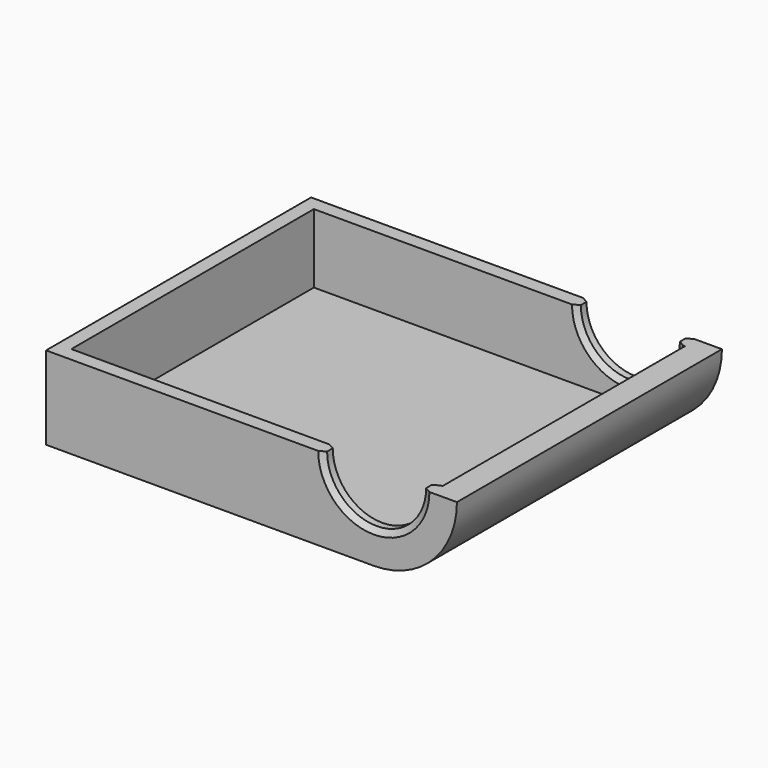
from build123d import *

# Parameters (mm, degrees)
PAD005_DEPTH        = 70.75
PAD006_DEPTH        = 14.75
PAD007_DEPTH        = 3
PAD008_DEPTH        = 3
POCKET001_DEPTH     = 70.751
REVOLUTION001_ANGLE = 180
SKETCH013_W         = 2.5
SKETCH013_H         = 8.75
PAD009_DEPTH        = 67.75


with BuildPart() as part:
    # Sketch007 → Pad005 (new body)
    with BuildSketch(Plane.XZ):
        with BuildLine():
            ThreePointArc((0, 0), (10.429825, 4.320175), (14.75, 14.75))
            Line((14.75, 14.75), (17.75, 14.75))
            ThreePointArc((4.3e-05, -3), (12.55116, 2.19887), (17.75, 14.75))
            Line((-69.999957, -3), (4.3e-05, -3))
            Line((-69.999957, 0), (-69.999957, -3))
            Line((0, 0), (-69.999957, 0))
        make_face()
    extrude(amount=PAD005_DEPTH)

    # Sketch008 (on Face6 of Pad005) → Pad006 (join)
    with BuildSketch(Plane(origin=(0, 0, 0), x_dir=(-1, 0, 0), z_dir=(0, 0, 1))):
        Polygon((70, 0), (70, 70.75), (0, 70.75), (0, 67.75), (67, 67.75), (67, 3), (0, 3), (0, 0), align=None)
    extrude(amount=PAD006_DEPTH)

    # Sketch009 (on Face15 of Pad006) → Pad007 (join)
    with BuildSketch(Plane.XZ.offset(70.75)):
        with BuildLine():
            ThreePointArc((0, 0), (10.429825, 4.320175), (14.75, 14.75))
            Line((0, 14.75), (14.75, 14.75))
            Line((0, 0), (0, 14.75))
        make_face()
    extrude(amount=-PAD007_DEPTH)

    # Sketch010 (on Face2 of Pad007) → Pad008 (join)
    with BuildSketch(Plane(origin=(0, 0, 0), x_dir=(1, 0, 0), z_dir=(0, 1, 0))):
        with BuildLine():
            ThreePointArc((14.75, -14.75), (10.429825, -4.320175), (0, 0))
            Line((0, -14.75), (0, 0))
            Line((14.75, -14.75), (0, -14.75))
        make_face()
    extrude(amount=-PAD008_DEPTH)

    # Sketch011 (on Face2 of Pad008) → Pocket001 (cut, through all)
    with BuildSketch(Plane.XZ.offset(70.75)):
        with BuildLine():
            ThreePointArc((-11.875, 14.75), (0, 2.875), (11.875, 14.75))
            Line((-11.875, 14.75), (11.875, 14.75))
        make_face()
    extrude(amount=-POCKET001_DEPTH, mode=Mode.SUBTRACT)

    # Sketch012 (on Face5 of Pocket001) → Revolution001 (revolve)
    with BuildSketch(Plane(origin=(0, 0, 14.75), x_dir=(-1, 0, 0), z_dir=(0, 0, 1))):
        Polygon((13.174038, 70), (11.875, 70.75), (10.575962, 70), (10.575962, 68.5), (11.875, 67.75), (13.174038, 68.5), align=None)
        Polygon((13.174038, 2.25), (11.875, 3), (10.575962, 2.25), (10.575962, 0.75), (11.875, 0), (13.174038, 0.75), align=None)
    revolve(axis=Axis((0, 0, 14.75), (0, -1, 0)), revolution_arc=REVOLUTION001_ANGLE)

    # Sketch013 (on Face3 of Revolution001) → Pad009 (join)
    with BuildSketch(Plane(origin=(0, -67.75, 0), x_dir=(1, 0, 0), z_dir=(0, 1, 0))):
        with Locations((13.5, -10.375)):
            Rectangle(SKETCH013_W, SKETCH013_H)
    extrude(amount=PAD009_DEPTH)


solid = part.part
